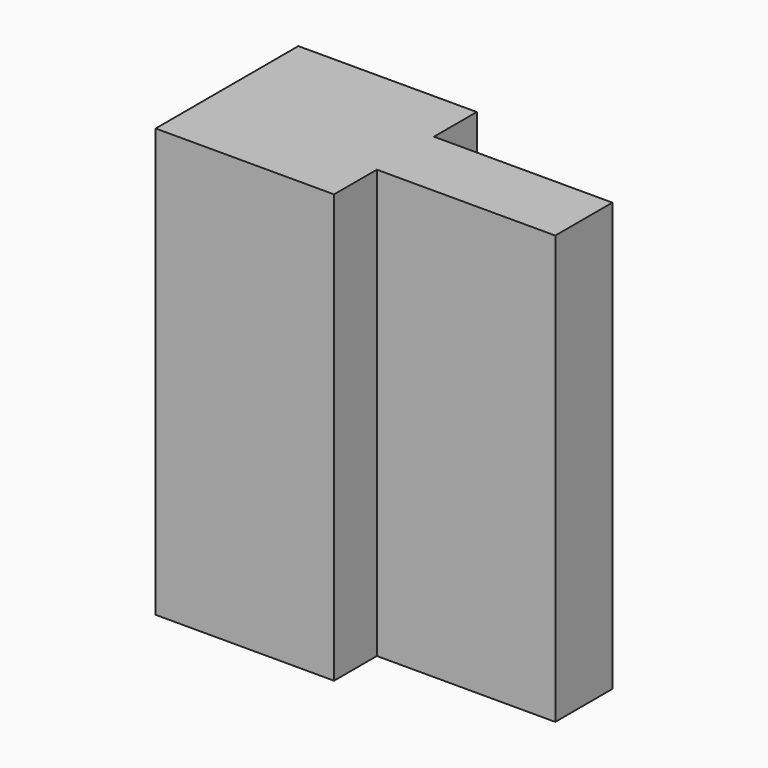
from build123d import *

# Parameters (mm, degrees)
F0_W     = 127
F0_H     = 304.8
F1_DEPTH = 63.5
F2_DEPTH = 25.4


with BuildPart() as f1:
    # F0 (on Front) → F1 (new body, symmetric)
    with BuildSketch(Plane.XZ):
        with Locations((-25.380718, 29.46482)):
            Rectangle(F0_W, F0_H)
    extrude(amount=F1_DEPTH, both=True)

    # F0 (on Front) → F2 (join, symmetric)
    with BuildSketch(Plane.XZ):
        with Locations((101.619282, 29.46482)):
            Rectangle(F0_W, F0_H)
    extrude(amount=F2_DEPTH, both=True)


solid = f1.part
